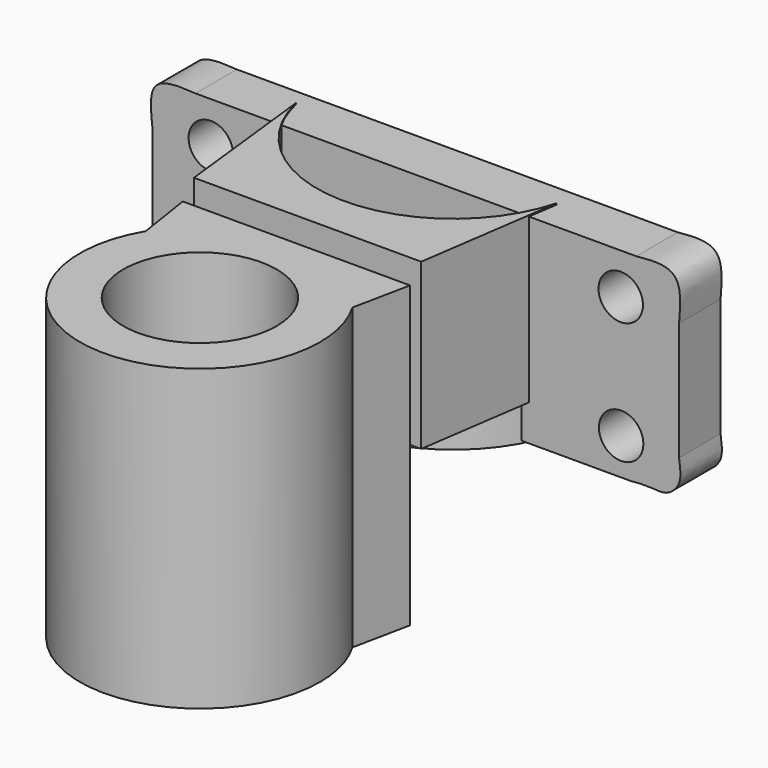
from build123d import *

# Parameters (mm, degrees)
F0_R     = 6
F2_DEPTH = 14
F1_R     = 3.669527392
F3_DEPTH = 10.4
F4_DEPTH = 44.5
F1_R_2   = 20.7233409956
F5_DEPTH = 40.4


with BuildPart() as f2:
    # F0 (on Front) → F2 (new body)
    with BuildSketch(Plane.XZ):
        with BuildLine():
            add(Edge.make_bspline(
                [(61.0146974474, 44.1574379802), (63.7617856681, 44.4336833908), (68.8666510947, 44.8691129113), (73.4147797685, 41.7098119831), (72.8757982385, 35.1158832019), (72.6099535823, 32)],
                knots=[0, 0, 0, 0, 0.3508843363, 0.6166320586, 1, 1, 1, 1], degree=3))
            Line((61.0146974474, 44.1574379802), (-57.9853025526, 44.1574379802))
            add(Edge.make_bspline(
                [(-57.9853025526, 44.1574379802), (-60.2662973619, 44.3336686684), (-64.7497752346, 44.6083745859), (-70.759289285, 42.3863582475), (-69.971378021, 35.3120177128), (-69.5805549622, 32)],
                knots=[0, 0, 0, 0, 0.3283639214, 0.6109116076, 1, 1, 1, 1], degree=3))
            Line((-69.5805549622, 32), (-69.5805549622, 0))
            add(Edge.make_bspline(
                [(-69.5805549622, 0), (-69.8204757619, -2.0988563596), (-70.3178497464, -5.988996106), (-66.8267252912, -10.5370797758), (-62.6444295049, -9.7551429644), (-59.4916455448, -9.7551429644)],
                knots=[0, 0, 0, 0, 0.3368490341, 0.6286370962, 1, 1, 1, 1], degree=3))
            Line((-59.4916455448, -9.7551429644), (-39.3243581057, -9.7551429644))
            Line((-39.3243581057, -9.7551429644), (36.8334986269, -9.7551429644))
            Line((36.8334986269, -9.7551429644), (59.5083544552, -9.7551429644))
            add(Edge.make_bspline(
                [(72.6099535823, 0), (72.8908435255, -1.9692706808), (73.6249139487, -6.1398073623), (68.4834261321, -10.8304544208), (65.358556807, -9.1245863587), (59.5083544552, -9.7551429644)],
                knots=[0, 0, 0, 0, 0.3147924227, 0.6000732053, 1, 1, 1, 1], degree=3))
            Line((72.6099535823, 0), (72.6099535823, 32))
        make_face()
        with Locations((-53.6938116392, 0.2269388525)):
            Circle(F0_R, mode=Mode.SUBTRACT)
        with Locations((56.9562916677, 0.1599236558)):
            Circle(F0_R, mode=Mode.SUBTRACT)
        with Locations((-53.8388539298, 32.9838839062)):
            Circle(F0_R, mode=Mode.SUBTRACT)
        with Locations((56.8460412323, 33.1226997077)):
            Circle(F0_R, mode=Mode.SUBTRACT)
    extrude(amount=F2_DEPTH)

    # F1 (on Top) → F3 (join, symmetric)
    with BuildSketch(Plane.XY):
        with BuildLine():
            Line((-28.2938461751, 2.743112389), (-39.2250753939, 3.5655137617))
            Line((-39.2250753939, 3.5655137617), (-38.2889212397, -4.7235400583))
            ThreePointArc((-38.2889212397, -4.7235400583), (-3.1105555298, -33.3276745557), (33.2061975675, -6.1834786967))
            Line((33.2061975675, -6.1834786967), (34.5008932054, 2.743112389))
            Line((34.5008932054, 2.743112389), (22.9886248708, 2.743112389))
            ThreePointArc((22.9886248708, 2.743112389), (-2.6526106521, -23.8596047048), (-28.2938461751, 2.743112389))
        make_face()
        with Locations((-3.2367382664, -28.2147508115)):
            Circle(F1_R, mode=Mode.SUBTRACT)
    extrude(amount=F3_DEPTH, both=True)

    # F1 (on Top) → F4 (join)
    with BuildSketch(Plane.XY):
        with BuildLine():
            ThreePointArc((33.2061975675, -6.1834786967), (-3.1105555298, -33.3276745557), (-38.2889212397, -4.7235400583))
            Line((-38.2889212397, -4.7235400583), (-33.7641872466, -44.7872020304))
            Line((-33.7641872466, -44.7872020304), (27.6071876287, -44.7872020304))
            Line((27.6071876287, -44.7872020304), (33.2061975675, -6.1834786967))
        make_face()
    extrude(amount=F4_DEPTH)


with BuildPart() as f5:
    # F1 (on Top) → F5 (new body, symmetric)
    with BuildSketch(Plane.XY):
        with BuildLine():
            Line((-8.5403546691, -48.560846597), (-33.7641872466, -48.560846597))
            Line((-33.7641872466, -48.560846597), (-31.3808321953, -64.0526488423))
            ThreePointArc((-31.3808321953, -64.0526488423), (-21.6897271324, -53.7573839468), (-8.5403546691, -48.560846597))
        make_face()
        with BuildLine():
            Line((24.4293808937, -64.0526488423), (27.6071876287, -48.560846597))
            Line((27.6071876287, -48.560846597), (1.5889033675, -48.560846597))
            ThreePointArc((1.5889033675, -48.560846597), (14.7382758308, -53.7573839468), (24.4293808937, -64.0526488423))
        make_face()
        with BuildLine():
            Line((1.5889033675, -48.560846597), (-8.5403546691, -48.560846597))
            ThreePointArc((-8.5403546691, -48.560846597), (-21.6897271324, -53.7573839468), (-31.3808321953, -64.0526488423))
            ThreePointArc((-31.3808321953, -64.0526488423), (-12.0610423886, -111.9031840723), (28.9724776449, -80.6113603218))
            ThreePointArc((28.9724776449, -80.6113603218), (27.8160980997, -72.026043584), (24.4293808937, -64.0526488423))
            ThreePointArc((24.4293808937, -64.0526488423), (14.7382758308, -53.7573839468), (1.5889033675, -48.560846597))
        make_face()
        with Locations((-3.4757256508, -80.6113603218)):
            Circle(F1_R_2, mode=Mode.SUBTRACT)
    extrude(amount=F5_DEPTH, both=True)


solid = Compound([f2.part, f5.part])
